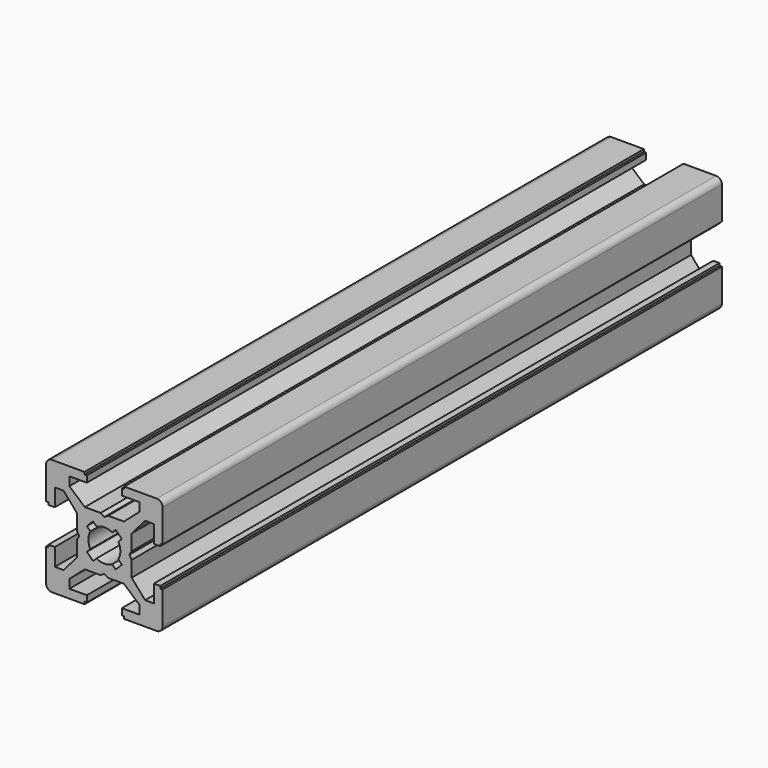
from build123d import *

# Parameters (mm, degrees)
PAD_DEPTH          = 120
POCKET_DEPTH       = 380
POLARPATTERN_COUNT = 4
POCKET001_DEPTH    = 380


with BuildPart() as part:
    # Sketch → Pad (new body)
    with BuildSketch(Plane.XZ):
        with BuildLine():
            Line((-9, 10), (9, 10))
            ThreePointArc((10, 9), (9.707107, 9.707107), (9, 10))
            Line((10, 9), (10, -9))
            ThreePointArc((9, -10), (9.707107, -9.707107), (10, -9))
            Line((9, -10), (-9, -10))
            ThreePointArc((-10, -9), (-9.707107, -9.707107), (-9, -10))
            Line((-10, -9), (-10, 9))
            ThreePointArc((-9, 10), (-9.707107, 9.707107), (-10, 9))
        make_face()
    extrude(amount=PAD_DEPTH)

    # Sketch001 (on Face10 of Pad) → Pocket (cut)
    with BuildSketch(Plane.XZ.offset(120)):
        Polygon((-3.4, 10), (-3.4, 9.6), (-3, 9.6), (-3, 8.5), (-6, 8.5), (-6, 7), (-3.35, 4.7), (-0.65, 4.7), (0, 4.3), (0.65, 4.7), (3.35, 4.7), (6, 7), (6, 8.5), (3, 8.5), (3, 9.6), (3.4, 9.6), (3.4, 10), align=None)
    pocket = extrude(amount=-POCKET_DEPTH, mode=Mode.SUBTRACT)

    # PolarPattern: Pocket ×4 about axis
    polarpattern_axis = Axis((0, -120, 0), (0, -1, 0))
    for i in range(1, POLARPATTERN_COUNT):
        add(pocket.rotate(polarpattern_axis, i * 360 / POLARPATTERN_COUNT), mode=Mode.SUBTRACT)

    # Sketch002 (on Face4 of PolarPattern) → Pocket001 (cut)
    with BuildSketch(Plane.XZ.offset(120)):
        with BuildLine():
            ThreePointArc((1.340499, 2.401159), (0, 2.75), (-1.340499, 2.401159))
            Line((-1.944544, 3.005204), (-1.340499, 2.401159))
            Line((-3.005204, 1.944544), (-1.944544, 3.005204))
            Line((-2.401159, 1.340499), (-3.005204, 1.944544))
            ThreePointArc((-2.401159, 1.340499), (-2.75, 0), (-2.401159, -1.340499))
            Line((-3.005204, -1.944544), (-2.401159, -1.340499))
            Line((-1.944544, -3.005204), (-3.005204, -1.944544))
            Line((-1.340499, -2.401159), (-1.944544, -3.005204))
            ThreePointArc((-1.340499, -2.401159), (0, -2.75), (1.340499, -2.401159))
            Line((1.944544, -3.005204), (1.340499, -2.401159))
            Line((3.005204, -1.944544), (1.944544, -3.005204))
            Line((2.401159, -1.340499), (3.005204, -1.944544))
            ThreePointArc((2.401159, -1.340499), (2.75, 0), (2.401159, 1.340499))
            Line((2.401159, 1.340499), (3.005204, 1.944544))
            Line((3.005204, 1.944544), (1.944544, 3.005204))
            Line((1.944544, 3.005204), (1.340499, 2.401159))
        make_face()
    extrude(amount=-POCKET001_DEPTH, mode=Mode.SUBTRACT)


solid = part.part
